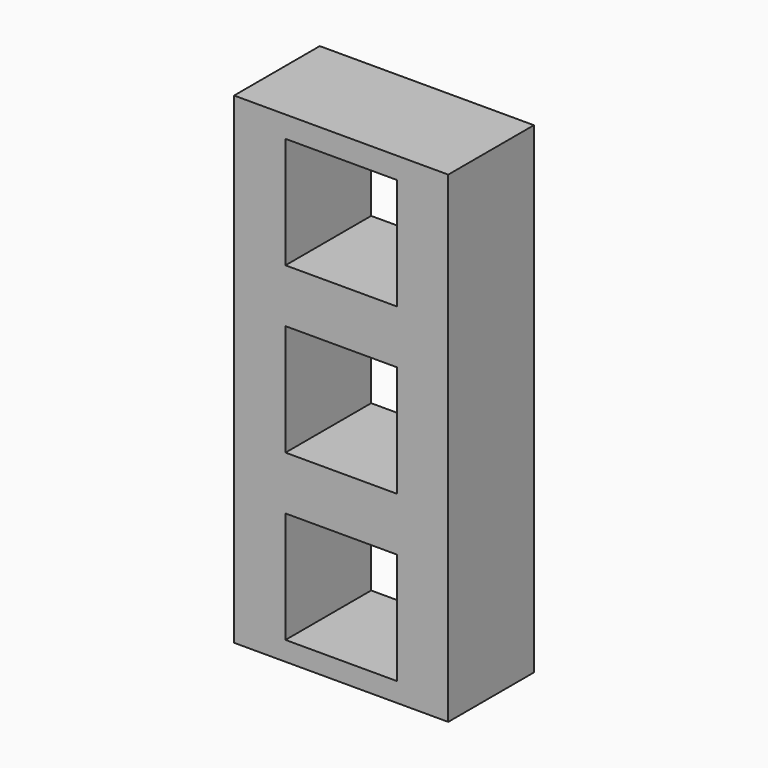
from build123d import *

# Parameters (mm, degrees)
F0_W     = 25.4
F0_H     = 57.15
F0_W_2   = 13.208
F0_H_2   = 13.208
F1_DEPTH = 12.7


with BuildPart() as f1:
    # F0 (on Front) → F1 (new body)
    with BuildSketch(Plane.XZ):
        with Locations((30.053901, -26.035)):
            Rectangle(F0_W, F0_H)
        with Locations((30.053901, -26.162)):
            Rectangle(F0_W_2, F0_H_2, mode=Mode.SUBTRACT)
        with Locations((30.053901, -45.72)):
            Rectangle(F0_W_2, F0_H_2, mode=Mode.SUBTRACT)
        with Locations((30.053901, -6.604)):
            Rectangle(F0_W_2, F0_H_2, mode=Mode.SUBTRACT)
    extrude(amount=F1_DEPTH)


solid = f1.part
